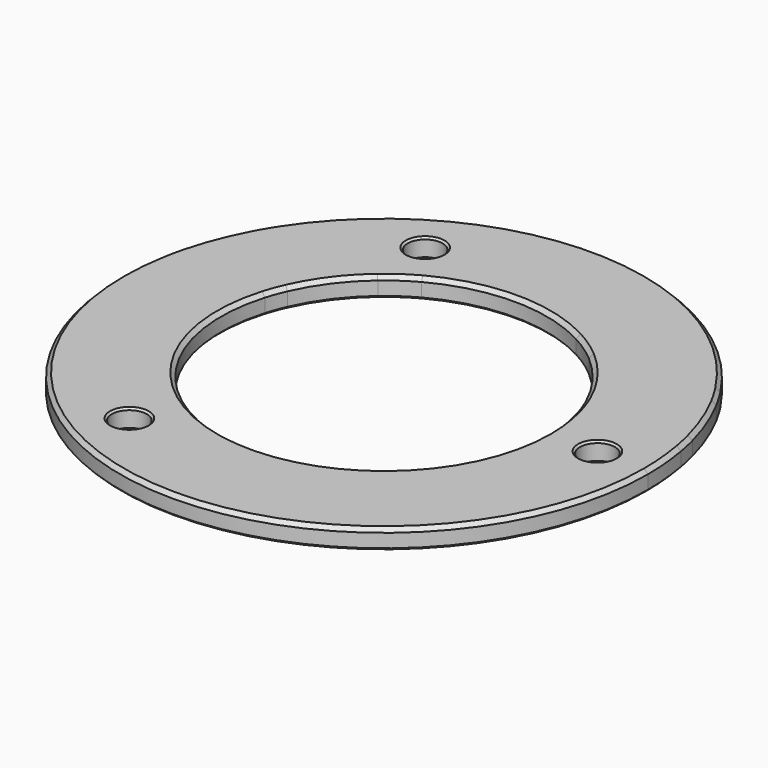
from build123d import *

# Parameters (mm, degrees)
F0_R     = 4.5
F1_DEPTH = 5
F2_SIZE  = 1
F3_SIZE  = 0.5


with BuildPart() as f1:
    # F0 (on Top) → F1 (new body)
    with BuildSketch(Plane.XY):
        with BuildLine():
            Line((55.8569601751, 37), (57.0526073024, 37))
            ThreePointArc((57.0526073024, 37), (0, 68), (-57.0526073024, 37))
            Line((-57.0526073024, 37), (-55.8569601751, 37))
            ThreePointArc((-55.8569601751, 37), (0, 67), (55.8569601751, 37))
        make_face()
        with BuildLine():
            Line((21.9089023002, 37), (55.8569601751, 37))
            ThreePointArc((55.8569601751, 37), (0, 67), (-55.8569601751, 37))
            Line((-55.8569601751, 37), (-21.9089023002, 37))
            ThreePointArc((-21.9089023002, 37), (0, 43), (21.9089023002, 37))
        make_face()
        with Locations((-27.5, 47.6313972081)):
            Circle(F0_R, mode=Mode.SUBTRACT)
        with BuildLine():
            Line((19.8746069144, 37), (21.9089023002, 37))
            ThreePointArc((21.9089023002, 37), (0, 43), (-21.9089023002, 37))
            Line((-21.9089023002, 37), (-19.8746069144, 37))
            ThreePointArc((-19.8746069144, 37), (0, 42), (19.8746069144, 37))
        make_face()
        with BuildLine():
            ThreePointArc((-21.9089023002, 37), (-25.438998692, 34.6678142598), (-28.7228132327, 32))
            Line((-28.7228132327, 32), (-27.2029410175, 32))
            ThreePointArc((-27.2029410175, 32), (-23.6711613534, 34.6940358013), (-19.8746069144, 37))
            Line((-19.8746069144, 37), (-21.9089023002, 37))
        make_face()
        with BuildLine():
            ThreePointArc((-55.8569601751, 37), (-57.4150594449, 34.5327518298), (-58.864250611, 32))
            Line((-58.864250611, 32), (-28.7228132327, 32))
            ThreePointArc((-28.7228132327, 32), (-25.438998692, 34.6678142598), (-21.9089023002, 37))
            Line((-21.9089023002, 37), (-55.8569601751, 37))
        make_face()
        with BuildLine():
            ThreePointArc((-57.0526073024, 37), (-58.579674112, 34.5314607413), (-60, 32))
            Line((-60, 32), (-58.864250611, 32))
            ThreePointArc((-58.864250611, 32), (-57.4150594449, 34.5327518298), (-55.8569601751, 37))
            Line((-55.8569601751, 37), (-57.0526073024, 37))
        make_face()
        with BuildLine():
            ThreePointArc((-58.864250611, 32), (-62.2890016221, 24.6795517974), (-64.8074069841, 17))
            Line((-64.8074069841, 17), (-39.4968353163, 17))
            ThreePointArc((-39.4968353163, 17), (-34.9246347445, 25.0852523999), (-28.7228132327, 32))
            Line((-28.7228132327, 32), (-58.864250611, 32))
        make_face()
        with BuildLine():
            ThreePointArc((-60, 32), (-63.3657755146, 24.6734370008), (-65.8407168855, 17))
            Line((-65.8407168855, 17), (-64.8074069841, 17))
            ThreePointArc((-64.8074069841, 17), (-62.2890016221, 24.6795517974), (-58.864250611, 32))
            Line((-58.864250611, 32), (-60, 32))
        make_face()
        with BuildLine():
            ThreePointArc((-28.7228132327, 32), (-34.9246347445, 25.0852523999), (-39.4968353163, 17))
            Line((-39.4968353163, 17), (-38.4057287393, 17))
            ThreePointArc((-38.4057287393, 17), (-33.6507709691, 25.1321629229), (-27.2029410175, 32))
            Line((-27.2029410175, 32), (-28.7228132327, 32))
        make_face()
        with BuildLine():
            Line((39.4968353163, 17), (64.8074069841, 17))
            ThreePointArc((64.8074069841, 17), (62.2890016221, 24.6795517974), (58.864250611, 32))
            Line((58.864250611, 32), (28.7228132327, 32))
            ThreePointArc((28.7228132327, 32), (34.9246347445, 25.0852523999), (39.4968353163, 17))
        make_face()
        with BuildLine():
            Line((58.864250611, 32), (60, 32))
            ThreePointArc((60, 32), (58.579674112, 34.5314607413), (57.0526073024, 37))
            Line((57.0526073024, 37), (55.8569601751, 37))
            ThreePointArc((55.8569601751, 37), (57.4150594449, 34.5327518298), (58.864250611, 32))
        make_face()
        with BuildLine():
            Line((28.7228132327, 32), (58.864250611, 32))
            ThreePointArc((58.864250611, 32), (57.4150594449, 34.5327518298), (55.8569601751, 37))
            Line((55.8569601751, 37), (21.9089023002, 37))
            ThreePointArc((21.9089023002, 37), (25.438998692, 34.6678142598), (28.7228132327, 32))
        make_face()
        with BuildLine():
            Line((27.2029410175, 32), (28.7228132327, 32))
            ThreePointArc((28.7228132327, 32), (25.438998692, 34.6678142598), (21.9089023002, 37))
            Line((21.9089023002, 37), (19.8746069144, 37))
            ThreePointArc((19.8746069144, 37), (23.6711613534, 34.6940358013), (27.2029410175, 32))
        make_face()
        with BuildLine():
            Line((38.4057287393, 17), (39.4968353163, 17))
            ThreePointArc((39.4968353163, 17), (34.9246347445, 25.0852523999), (28.7228132327, 32))
            Line((28.7228132327, 32), (27.2029410175, 32))
            ThreePointArc((27.2029410175, 32), (33.6507709691, 25.1321629229), (38.4057287393, 17))
        make_face()
        with BuildLine():
            Line((64.8074069841, 17), (65.8407168855, 17))
            ThreePointArc((65.8407168855, 17), (63.3657755146, 24.6734370008), (60, 32))
            Line((60, 32), (58.864250611, 32))
            ThreePointArc((58.864250611, 32), (62.2890016221, 24.6795517974), (64.8074069841, 17))
        make_face()
        with BuildLine():
            Line((65.9166139907, 12), (66.9328021227, 12))
            ThreePointArc((66.9328021227, 12), (66.4338154667, 14.5102778244), (65.8407168855, 17))
            Line((65.8407168855, 17), (64.8074069841, 17))
            ThreePointArc((64.8074069841, 17), (65.4098036609, 14.5106025046), (65.9166139907, 12))
        make_face()
        with BuildLine():
            Line((41.2916456441, 12), (65.9166139907, 12))
            ThreePointArc((65.9166139907, 12), (65.4098036609, 14.5106025046), (64.8074069841, 17))
            Line((64.8074069841, 17), (39.4968353163, 17))
            ThreePointArc((39.4968353163, 17), (40.471529054, 14.5277436661), (41.2916456441, 12))
        make_face()
        with BuildLine():
            Line((40.249223595, 12), (41.2916456441, 12))
            ThreePointArc((41.2916456441, 12), (40.471529054, 14.5277436661), (39.4968353163, 17))
            Line((39.4968353163, 17), (38.4057287393, 17))
            ThreePointArc((38.4057287393, 17), (39.4068570388, 14.5292676457), (40.249223595, 12))
        make_face()
        with BuildLine():
            ThreePointArc((43, 0), (42.5707690951, 6.060496568), (41.2916456441, 12))
            Line((41.2916456441, 12), (40.249223595, 12))
            ThreePointArc((40.249223595, 12), (41.5600011489, 6.0635224503), (42, 0))
            ThreePointArc((42, 0), (-6.0635224503, -41.5600011489), (-40.249223595, 12))
            Line((-40.249223595, 12), (-41.2916456441, 12))
            ThreePointArc((-41.2916456441, 12), (-6.060496568, -42.5707690951), (43, 0))
        make_face()
        with BuildLine():
            ThreePointArc((67, 0), (66.7286038269, 6.0244029838), (65.9166139907, 12))
            Line((65.9166139907, 12), (41.2916456441, 12))
            ThreePointArc((41.2916456441, 12), (42.5707690951, 6.060496568), (43, 0))
            ThreePointArc((43, 0), (-6.060496568, -42.5707690951), (-41.2916456441, 12))
            Line((-41.2916456441, 12), (-65.9166139907, 12))
            ThreePointArc((-65.9166139907, 12), (-6.0244029838, -66.7286038269), (67, 0))
        make_face()
        with Locations((-27.5, -47.6313972081)):
            Circle(F0_R, mode=Mode.SUBTRACT)
        with Locations((55, 0)):
            Circle(F0_R, mode=Mode.SUBTRACT)
        with BuildLine():
            ThreePointArc((-66.9328021227, 12), (-6.0236805881, -67.7326750703), (68, 0))
            ThreePointArc((68, 0), (67.7326750703, 6.0236805881), (66.9328021227, 12))
            Line((66.9328021227, 12), (65.9166139907, 12))
            ThreePointArc((65.9166139907, 12), (66.7286038269, 6.0244029838), (67, 0))
            ThreePointArc((67, 0), (-6.0244029838, -66.7286038269), (-65.9166139907, 12))
            Line((-65.9166139907, 12), (-66.9328021227, 12))
        make_face()
        with BuildLine():
            ThreePointArc((-39.4968353163, 17), (-40.471529054, 14.5277436661), (-41.2916456441, 12))
            Line((-41.2916456441, 12), (-40.249223595, 12))
            ThreePointArc((-40.249223595, 12), (-39.4068570388, 14.5292676457), (-38.4057287393, 17))
            Line((-38.4057287393, 17), (-39.4968353163, 17))
        make_face()
        with BuildLine():
            ThreePointArc((-65.8407168855, 17), (-66.4338154667, 14.5102778244), (-66.9328021227, 12))
            Line((-66.9328021227, 12), (-65.9166139907, 12))
            ThreePointArc((-65.9166139907, 12), (-65.4098036609, 14.5106025046), (-64.8074069841, 17))
            Line((-64.8074069841, 17), (-65.8407168855, 17))
        make_face()
        with BuildLine():
            ThreePointArc((-64.8074069841, 17), (-65.4098036609, 14.5106025046), (-65.9166139907, 12))
            Line((-65.9166139907, 12), (-41.2916456441, 12))
            ThreePointArc((-41.2916456441, 12), (-40.471529054, 14.5277436661), (-39.4968353163, 17))
            Line((-39.4968353163, 17), (-64.8074069841, 17))
        make_face()
    extrude(amount=F1_DEPTH)

    # F2
    f2_edges = [f1.edges().sort_by_distance(p)[0] for p in [
        (65.840717, -17, 5),
        (40.249224, -12, 5),
    ]]
    chamfer(f2_edges, length=F2_SIZE)

    # F3
    f3_edges = [f1.edges().sort_by_distance(p)[0] for p in [
        (-32, 47.631397, 5),
        (40.249224, -12, 0),
        (-32, 47.631397, 0),
        (65.840717, -17, 0),
        (50.5, 0, 5),
        (50.5, 0, 0),
        (-32, -47.631397, 5),
        (-32, -47.631397, 0),
    ]]
    chamfer(f3_edges, length=F3_SIZE)


solid = f1.part
